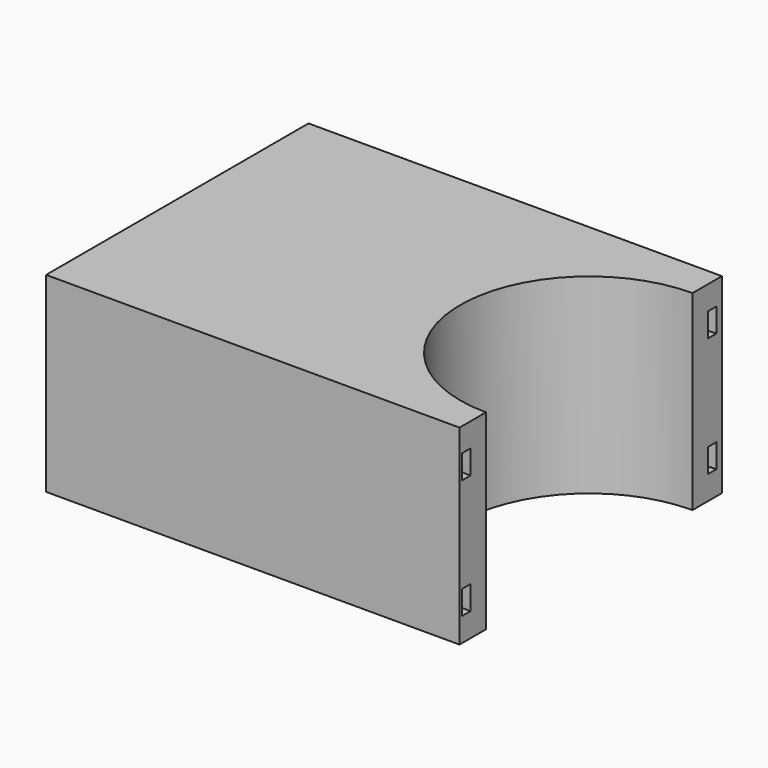
from build123d import *

# Parameters (mm, degrees)
F1_DEPTH = 50.8
F2_R     = 3.625658
F3_DEPTH = 50.8
F5_DEPTH = 44.45
F6_DEPTH = 38.1
F7_DEPTH = 12.7
F8_DEPTH = 6.35


with BuildPart() as f1:
    # F0 (on Top) → F1 (new body)
    with BuildSketch(Plane.XY):
        with BuildLine():
            Line((59.092954, 44.097524), (-50.835285, 44.097524))
            Line((-50.835285, 44.097524), (-50.835285, -43.112647))
            Line((-50.835285, -43.112647), (59.092954, -43.112647))
            Line((59.092954, -43.112647), (59.092954, -34.318248))
            ThreePointArc((59.092954, -34.318248), (24.774705, 0), (59.092954, 34.318248))
            Line((59.092954, 34.318248), (59.092954, 44.097524))
        make_face()
    extrude(amount=F1_DEPTH)

    # F2 (on face) → F3 (cut)
    with BuildSketch(Plane(origin=(-50.835285, 0, 0), x_dir=(0, -1, 0), z_dir=(-1, 0, 0))):
        with Locations((0, 24.232104)):
            Circle(F2_R)
    extrude(amount=-F3_DEPTH, mode=Mode.SUBTRACT)

    # F4 (on face) → F5 (cut)
    with BuildSketch(Plane.XY.offset(50.8)):
        with BuildLine():
            ThreePointArc((59.092954, -39.50878), (19.584174, 0), (59.092954, 39.50878))
            Line((59.092954, 39.50878), (59.092954, 42.25664))
            ThreePointArc((59.092954, 42.25664), (16.836314, 0), (59.092954, -42.25664))
            Line((59.092954, -42.25664), (59.092954, -39.50878))
        make_face()
    extrude(amount=-F5_DEPTH, mode=Mode.SUBTRACT)

    # F4 (on face) → F6 (join)
    with BuildSketch(Plane.XY.offset(50.8)):
        with BuildLine():
            ThreePointArc((59.092954, -39.50878), (19.584174, 0), (59.092954, 39.50878))
            Line((59.092954, 39.50878), (59.092954, 42.25664))
            ThreePointArc((59.092954, 42.25664), (16.836314, 0), (59.092954, -42.25664))
            Line((59.092954, -42.25664), (59.092954, -39.50878))
        make_face()
    extrude(amount=-F6_DEPTH)

    # F4 (on face) → F7 (cut)
    with BuildSketch(Plane.XY.offset(50.8)):
        with BuildLine():
            ThreePointArc((59.092954, -39.50878), (19.584174, 0), (59.092954, 39.50878))
            Line((59.092954, 39.50878), (59.092954, 42.25664))
            ThreePointArc((59.092954, 42.25664), (16.836314, 0), (59.092954, -42.25664))
            Line((59.092954, -42.25664), (59.092954, -39.50878))
        make_face()
    extrude(amount=-F7_DEPTH, mode=Mode.SUBTRACT)

    # F4 (on face) → F8 (join)
    with BuildSketch(Plane.XY.offset(50.8)):
        with BuildLine():
            ThreePointArc((59.092954, -39.50878), (19.584174, 0), (59.092954, 39.50878))
            Line((59.092954, 39.50878), (59.092954, 42.25664))
            ThreePointArc((59.092954, 42.25664), (16.836314, 0), (59.092954, -42.25664))
            Line((59.092954, -42.25664), (59.092954, -39.50878))
        make_face()
    extrude(amount=-F8_DEPTH)


solid = f1.part
